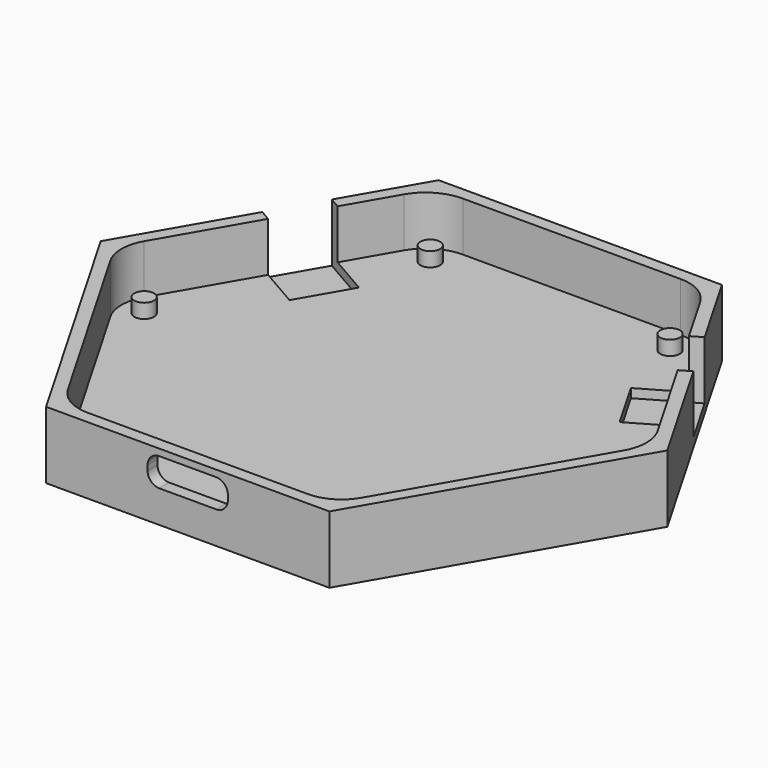
from build123d import *

# Parameters (mm, degrees)
PAD_DEPTH          = 2
PAD001_DEPTH       = 5.5
POCKET_DEPTH       = 6.5
POCKET001_DEPTH    = 5
SKETCH004_R        = 1.1
PAD002_DEPTH       = 1.6
POLARPATTERN_COUNT = 4
POLARPATTERN_ANGLE = 180


with BuildPart() as part:
    # Sketch → Pad (new body)
    with BuildSketch(Plane.XY):
        Polygon((-31.6, 0), (-15.8, -27.366403), (15.8, -27.366403), (31.6, 0), (15.8, 27.366403), (-15.8, 27.366403), align=None)
    extrude(amount=PAD_DEPTH)

    # Sketch001 (on Face8 of Pad) → Pad001 (join)
    with BuildSketch(Plane.XY.offset(2)):
        Polygon((-31.6, 0), (-15.8, -27.366403), (15.8, -27.366403), (31.6, 0), (15.8, 27.366403), (-15.8, 27.366403), align=None)
        with BuildLine():
            Line((-28.65, -2.338268), (-16.365, -23.616513))
            ThreePointArc((-16.365, -23.616513), (-14.634249, -25.347263), (-12.27, -25.980762))
            Line((-12.27, -25.980762), (12.273, -25.980762))
            ThreePointArc((12.273, -25.980762), (14.634651, -25.34796), (16.3635, -23.619111))
            Line((16.3635, -23.619111), (28.63635, -2.361911))
            ThreePointArc((28.63635, -2.361911), (29.269222, 0), (28.63635, 2.361911))
            Line((28.63635, 2.361911), (16.35, 23.642494))
            ThreePointArc((16.35, 23.642494), (14.638269, 25.354225), (12.3, 25.980762))
            Line((12.3, 25.980762), (-12, 25.980762))
            ThreePointArc((-12, 25.980762), (-14.598076, 25.28461), (-16.5, 23.382686))
            Line((-16.5, 23.382686), (-28.65, 2.338269))
            ThreePointArc((-28.65, 2.338269), (-29.276537, 0), (-28.65, -2.338268))
        make_face(mode=Mode.SUBTRACT)
    extrude(amount=PAD001_DEPTH)

    # Sketch002 (on Face11 of Pad001) → Pocket (cut)
    with BuildSketch(Plane.XY.offset(7.5)):
        Polygon((-24.04408, 13.087238), (-20.79408, 18.716403), (-15.164915, 15.466403), (-18.414915, 9.837238), align=None)
        Polygon((20.79408, 18.716403), (24.04408, 13.087238), (18.414915, 9.837238), (15.164915, 15.466403), align=None)
    extrude(amount=-POCKET_DEPTH, mode=Mode.SUBTRACT)

    # Sketch003 (on Face13 of Pocket) → Pocket001 (cut)
    with BuildSketch(Plane.XZ.offset(27.366403)):
        with BuildLine():
            Line((-3.175, 6.76), (3.175, 6.76))
            ThreePointArc((4.475, 5.46), (4.094239, 6.379239), (3.175, 6.76))
            Line((4.475, 5.46), (4.475, 4.9))
            ThreePointArc((3.175, 3.6), (4.094239, 3.980761), (4.475, 4.9))
            Line((3.175, 3.6), (-3.175, 3.6))
            ThreePointArc((-4.475, 4.9), (-4.094239, 3.980761), (-3.175, 3.6))
            Line((-4.475, 5.46), (-4.475, 4.9))
            ThreePointArc((-3.175, 6.76), (-4.094239, 6.379239), (-4.475, 5.46))
        make_face()
    extrude(amount=-POCKET001_DEPTH, mode=Mode.SUBTRACT)

    # Sketch004 (on Face16 of Pocket001) → Pad002 (join)
    with BuildSketch(Plane.XY.offset(2)):
        with Locations((-26.75, 0)):
            Circle(SKETCH004_R)
    pad002 = extrude(amount=PAD002_DEPTH)

    # PolarPattern: Pad002 ×4 about axis
    polarpattern_axis = Axis((0, 0, 2), (0, 0, -1))
    for i in range(1, POLARPATTERN_COUNT):
        add(pad002.rotate(polarpattern_axis, i * POLARPATTERN_ANGLE / (POLARPATTERN_COUNT - 1)))


solid = part.part
